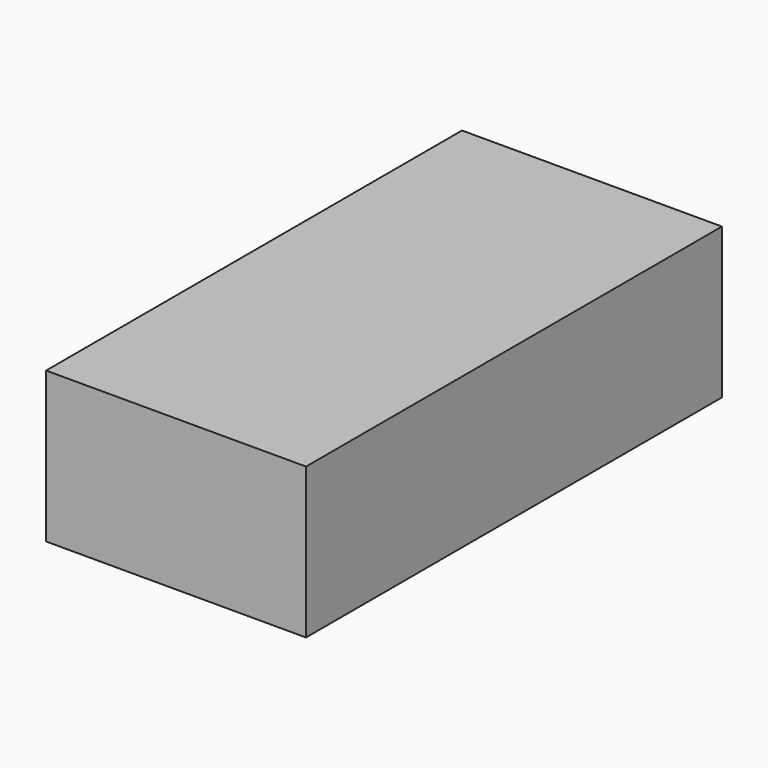
from build123d import *

# Parameters (mm, degrees)
SKETCH_W  = 38
SKETCH_H  = 76
PAD_DEPTH = 22


with BuildPart() as part:
    # Sketch → Pad (new body)
    with BuildSketch(Plane.XY):
        with Locations((29, 8)):
            Rectangle(SKETCH_W, SKETCH_H)
    extrude(amount=PAD_DEPTH)


solid = part.part
